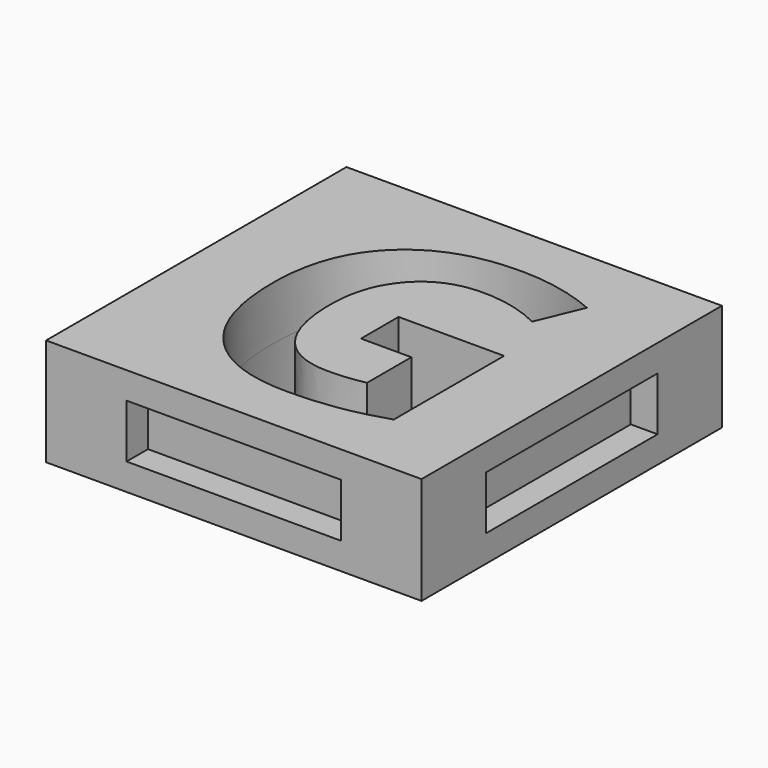
from build123d import *

# Parameters (mm, degrees)
F0_W     = 35.56
F0_H     = 35.56
F1_DEPTH = 5.08
F2_W     = 19.812
F2_H     = 4.572
F3_DEPTH = 2.54
F4_W     = 19.812
F4_H     = 4.572
F5_DEPTH = 2.54
F6_W     = 20.32
F6_H     = 5.08
F7_DEPTH = 2.54
F8_W     = 20.32
F8_H     = 5.08
F9_DEPTH = 2.54


with BuildPart() as f1:
    # F0 (on Top) → F1 (new body, symmetric)
    with BuildSketch(Plane.XY):
        Rectangle(F0_W, F0_H)
        with BuildLine():
            Line((0.2232421875, -3.0041232639), (0.2232421875, 1.4441840278))
            Line((0.2232421875, 1.4441840278), (10.2167751736, 1.4441840278))
            Line((10.2167751736, 1.4441840278), (10.2167751736, -11.6141059028))
            add(Edge.make_bspline(
                [(10.2167751736, -11.6141059028), (7.7859157986, -12.4078559028), (5.6416883681, -12.7275607639)],
                knots=[0, 0, 0, 1, 1, 1], degree=2))
            add(Edge.make_bspline(
                [(5.6416883681, -12.7275607639), (3.4974609375, -13.047265625), (1.2595269097, -13.047265625)],
                knots=[0, 0, 0, 1, 1, 1], degree=2))
            add(Edge.make_bspline(
                [(1.2595269097, -13.047265625), (-4.4400390625, -13.047265625), (-7.4469184028, -9.6958767361)],
                knots=[0, 0, 0, 1, 1, 1], degree=2))
            add(Edge.make_bspline(
                [(-7.4469184028, -9.6958767361), (-10.4537977431, -6.3444878472), (-10.4537977431, -0.0716579861)],
                knots=[0, 0, 0, 1, 1, 1], degree=2))
            add(Edge.make_bspline(
                [(-10.4537977431, -0.0716579861), (-10.4537977431, 6.0247829861), (-6.9646050347, 9.4340494792)],
                knots=[0, 0, 0, 1, 1, 1], degree=2))
            add(Edge.make_bspline(
                [(-6.9646050347, 9.4340494792), (-3.4754123264, 12.8433159722), (2.7037109375, 12.8433159722)],
                knots=[0, 0, 0, 1, 1, 1], degree=2))
            add(Edge.make_bspline(
                [(2.7037109375, 12.8433159722), (6.5842664931, 12.8433159722), (10.1837022569, 11.2944010417)],
                knots=[0, 0, 0, 1, 1, 1], degree=2))
            Line((10.1837022569, 11.2944010417), (8.4087890625, 7.0224826389))
            add(Edge.make_bspline(
                [(8.4087890625, 7.0224826389), (5.6527126736, 8.4005208333), (2.6706380208, 8.4005208333)],
                knots=[0, 0, 0, 1, 1, 1], degree=2))
            add(Edge.make_bspline(
                [(2.6706380208, 8.4005208333), (-0.7909939236, 8.4005208333), (-2.8745876736, 6.0743923611)],
                knots=[0, 0, 0, 1, 1, 1], degree=2))
            add(Edge.make_bspline(
                [(-2.8745876736, 6.0743923611), (-4.9581814236, 3.7482638889), (-4.9581814236, -0.1763888889)],
                knots=[0, 0, 0, 1, 1, 1], degree=2))
            add(Edge.make_bspline(
                [(-4.9581814236, -0.1763888889), (-4.9581814236, -4.2774305556), (-3.2797309028, -6.4381944444)],
                knots=[0, 0, 0, 1, 1, 1], degree=2))
            add(Edge.make_bspline(
                [(-3.2797309028, -6.4381944444), (-1.6012803819, -8.5989583333), (1.6012803819, -8.5989583333)],
                knots=[0, 0, 0, 1, 1, 1], degree=2))
            add(Edge.make_bspline(
                [(1.6012803819, -8.5989583333), (3.2769748264, -8.5989583333), (4.9967664931, -8.2572048611)],
                knots=[0, 0, 0, 1, 1, 1], degree=2))
            Line((4.9967664931, -8.2572048611), (4.9967664931, -3.0041232639))
            Line((4.9967664931, -3.0041232639), (0.2232421875, -3.0041232639))
        make_face(mode=Mode.SUBTRACT)
    extrude(amount=F1_DEPTH, both=True)

    # F2 (on face) → F3 (join)
    with BuildSketch(Plane(origin=(0, 17.78, 0), x_dir=(-1, 0, 0), z_dir=(0, 1, 0))):
        Rectangle(F2_W, F2_H)
    extrude(amount=F3_DEPTH)

    # F4 (on face) → F5 (join)
    with BuildSketch(Plane(origin=(-17.78, 0, 0), x_dir=(0, -1, 0), z_dir=(-1, 0, 0))):
        Rectangle(F4_W, F4_H)
    extrude(amount=F5_DEPTH)

    # F6 (on face) → F7 (cut)
    with BuildSketch(Plane.XZ.offset(17.78)):
        Rectangle(F6_W, F6_H)
    extrude(amount=-F7_DEPTH, mode=Mode.SUBTRACT)

    # F8 (on face) → F9 (cut)
    with BuildSketch(Plane.YZ.offset(17.78)):
        Rectangle(F8_W, F8_H)
    extrude(amount=-F9_DEPTH, mode=Mode.SUBTRACT)


solid = f1.part
